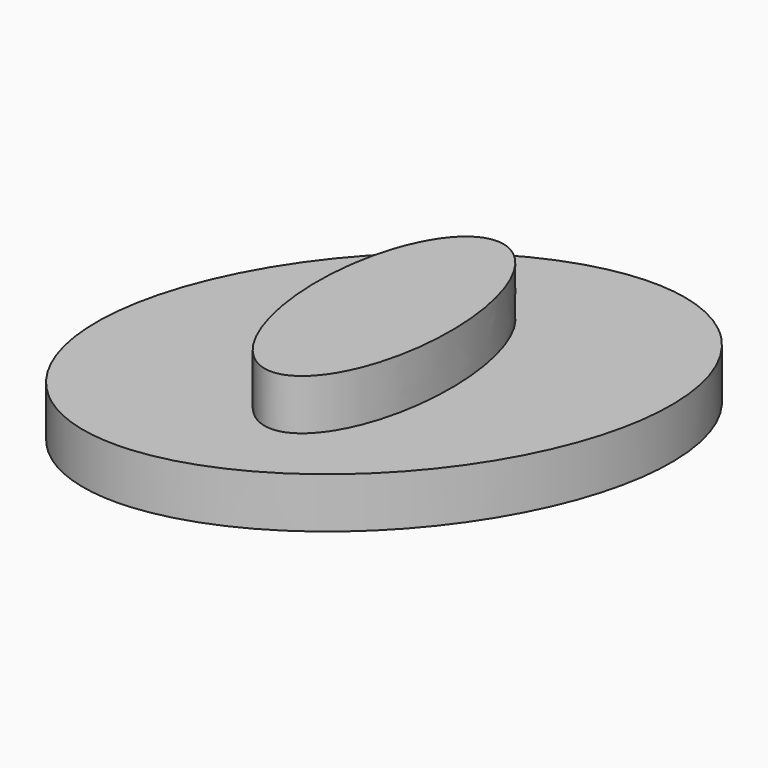
from build123d import *

# Parameters (mm, degrees)
F1_DEPTH = 25.4
F3_DEPTH = 25.4


with BuildPart() as f1:
    # F0 (on Top) → F1 (new body)
    with BuildSketch(Plane.XY):
        with BuildLine():
            add(Edge.make_bspline(
                [(26.492439, 54.801606), (-97.612748, 153.554798), (-161.255856, -53.786195), (-224.898964, -261.127189), (-37.150669, -152.539388), (150.597626, -43.951587), (26.492439, 54.801606)],
                knots=[0, 0, 0, 2.094395, 2.094395, 4.18879, 4.18879, 6.283185, 6.283185, 6.283185], degree=2, weights=[1, 0.5, 1, 0.5, 1, 0.5, 1]))
        make_face()
    extrude(amount=F1_DEPTH)


with BuildPart() as f3:
    # F2 (on face) → F3 (new body)
    with BuildSketch(Plane.XY.offset(25.4)):
        with BuildLine():
            add(Edge.make_bspline(
                [(-57.304695, 20.575717), (-115.589869, 20.575717), (-86.447282, -86.049847), (-57.304695, -192.675412), (-28.162108, -86.049847), (0.980479, 20.575717), (-57.304695, 20.575717)],
                knots=[0, 0, 0, 2.094395, 2.094395, 4.18879, 4.18879, 6.283185, 6.283185, 6.283185], degree=2, weights=[1, 0.5, 1, 0.5, 1, 0.5, 1]))
        make_face()
    extrude(amount=F3_DEPTH)


solid = Compound([f1.part, f3.part])
